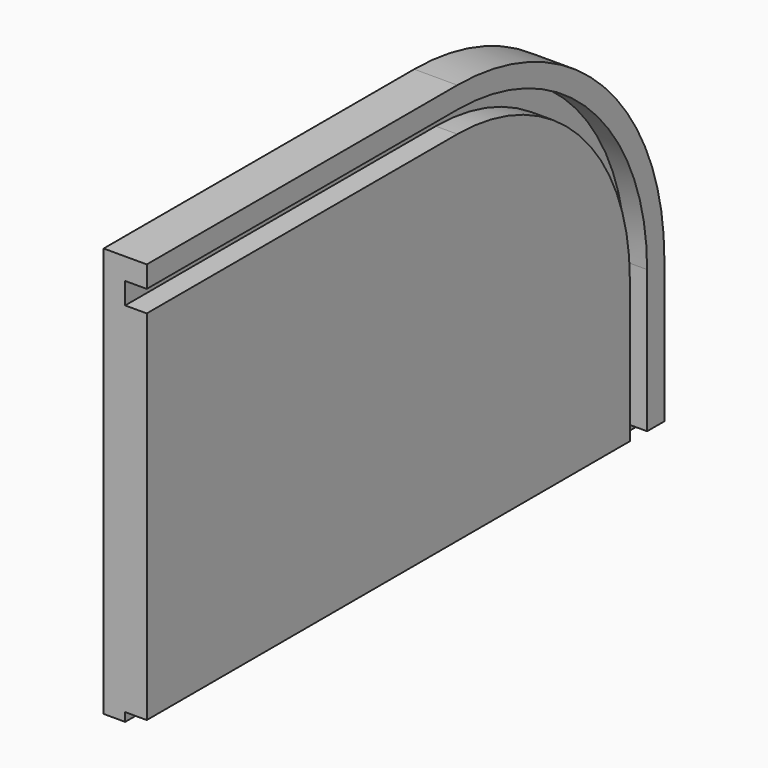
from build123d import *

# Parameters (mm, degrees)
F0_W     = 300
F0_H     = 190
F1_DEPTH = 20
F2_R     = 120
F4_DEPTH = 10
F5_W     = 10
F5_H     = 4
F6_DEPTH = 312


with BuildPart() as f1:
    # F0 (on Right) → F1 (new body)
    with BuildSketch(Plane.YZ):
        with Locations((0.458071, -42.454607)):
            Rectangle(F0_W, F0_H)
    extrude(amount=F1_DEPTH)

    # F2
    f2_edges = [f1.edges().sort_by_distance(p)[0] for p in [
        (10, 150.458071, 52.545393),
    ]]
    fillet(f2_edges, radius=F2_R)

    # F3 (on face) → F4 (cut)
    with BuildSketch(Plane.YZ.offset(20)):
        with BuildLine():
            Line((30.458071, 42.545393), (-149.541929, 42.545393))
            Line((-149.541929, 42.545393), (-149.541929, 32.545393))
            Line((-149.541929, 32.545393), (30.458071, 32.545393))
            ThreePointArc((30.458071, 32.545393), (101.168749, 3.256071), (130.458071, -67.454607))
            Line((130.458071, -67.454607), (130.458071, -137.454607))
            Line((130.458071, -137.454607), (140.458071, -137.454607))
            Line((140.458071, -137.454607), (140.458071, -67.454607))
            ThreePointArc((140.458071, -67.454607), (108.239817, 10.327139), (30.458071, 42.545393))
        make_face()
    extrude(amount=-F4_DEPTH, mode=Mode.SUBTRACT)

    # F5 (on face) → F6 (cut)
    with BuildSketch(Plane.XZ.offset(149.541929)):
        with Locations((15, -135.454607)):
            Rectangle(F5_W, F5_H)
    extrude(amount=-F6_DEPTH, mode=Mode.SUBTRACT)


solid = f1.part
